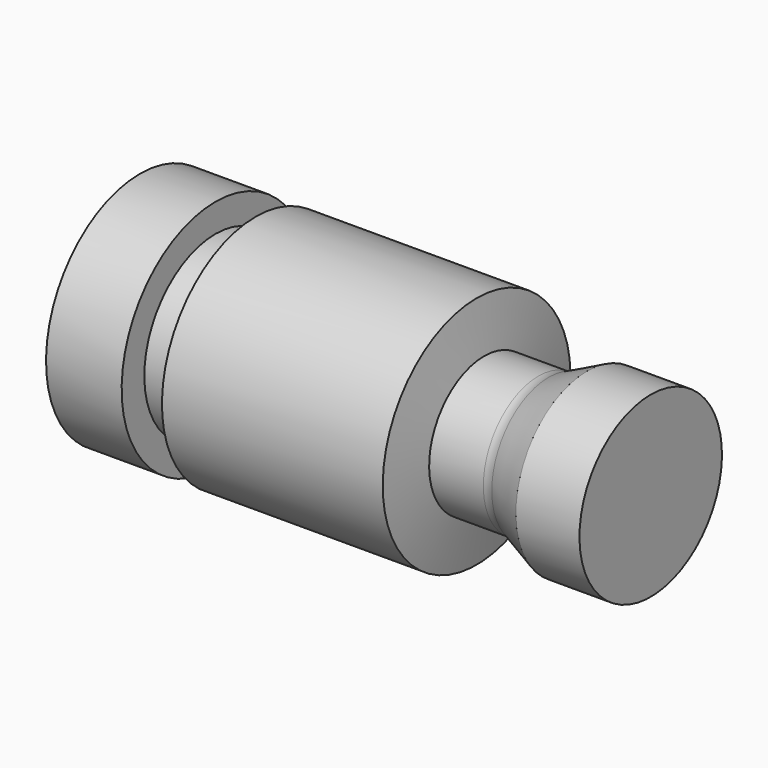
from build123d import *

# Parameters (mm, degrees)
F2_R     = 6
F3_DEPTH = 25


with BuildPart() as f1:
    # F0 (on Front) → F1 (revolve)
    with BuildSketch(Plane.XZ):
        with BuildLine():
            Line((0, 0), (0, 11))
            Line((0, 11), (-7.851503, 11))
            Line((-7.851503, 11), (-12.61, 8.781077))
            ThreePointArc((-12.61, 8.781077), (-13.228536, 8.571112), (-13.877855, 8.5))
            Line((-13.877855, 8.5), (-20.57, 8.5))
            Line((-20.57, 8.5), (-21.5, 14.5))
            Line((-21.5, 14.5), (-30.571486, 14.5))
            Line((-30.571486, 14.5), (-48.773584, 14.5))
            Line((-48.773584, 14.5), (-48.773584, 11))
            Line((-48.773584, 11), (-53.754714, 11))
            Line((-53.754714, 11), (-53.754714, 14.5))
            Line((-53.754714, 14.5), (-63.094336, 14.5))
            Line((-63.094336, 14.5), (-63.094336, 0))
            Line((-63.094336, 0), (0, 0))
        make_face()
    revolve(axis=Axis((-31.547168, 0, 0), (1, 0, 0)))

    # F2 (on face) → F3 (join)
    with BuildSketch(Plane.YZ):
        Circle(F2_R)
    extrude(amount=-F3_DEPTH)


solid = f1.part
